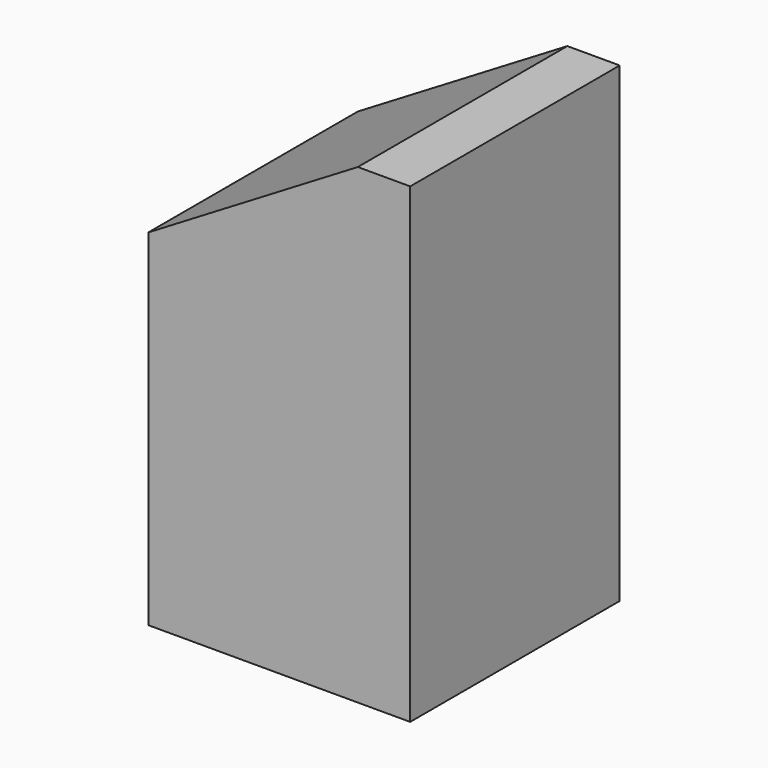
from build123d import *

# Parameters (mm, degrees)
SKETCH023_W     = 16
SKETCH023_H     = 16
PAD013_DEPTH    = 28.8
POCKET010_DEPTH = 16
POCKET047_DEPTH = 16
PAD140_DEPTH    = 16


with BuildPart() as part:
    # Sketch023 (on Face56 of Binder009) → Pad013 (new body)
    with BuildSketch(Plane.XY.offset(-28.8)):
        with Locations((-8, 32)):
            Rectangle(SKETCH023_W, SKETCH023_H)
    extrude(amount=PAD013_DEPTH)

    # Sketch024 (on Face3 of Pad013) → Pocket010 (cut)
    with BuildSketch(Plane.XZ.offset(-24)):
        Polygon((-16, -9.6), (0, 0), (-16, 0), align=None)
    extrude(amount=-POCKET010_DEPTH, mode=Mode.SUBTRACT)

    # Sketch138 (on Face6 of Pocket010) → Pocket047 (cut)
    with BuildSketch(Plane.XZ.offset(-24)):
        Polygon((0, 0), (-3.2, 0), (-16, -7.68), (-16, -10.88), (-3.2, -3.2), (0, -3.2), align=None)
    extrude(amount=-POCKET047_DEPTH, mode=Mode.SUBTRACT)

    # Sketch138 (on Face6 of Pocket010) → Pad140 (join)
    with BuildSketch(Plane.XZ.offset(-24)):
        Polygon((0, 0), (-3.2, 0), (-16, -7.68), (-16, -10.88), (-3.2, -3.2), (0, -3.2), align=None)
    extrude(amount=-PAD140_DEPTH)


solid = part.part
